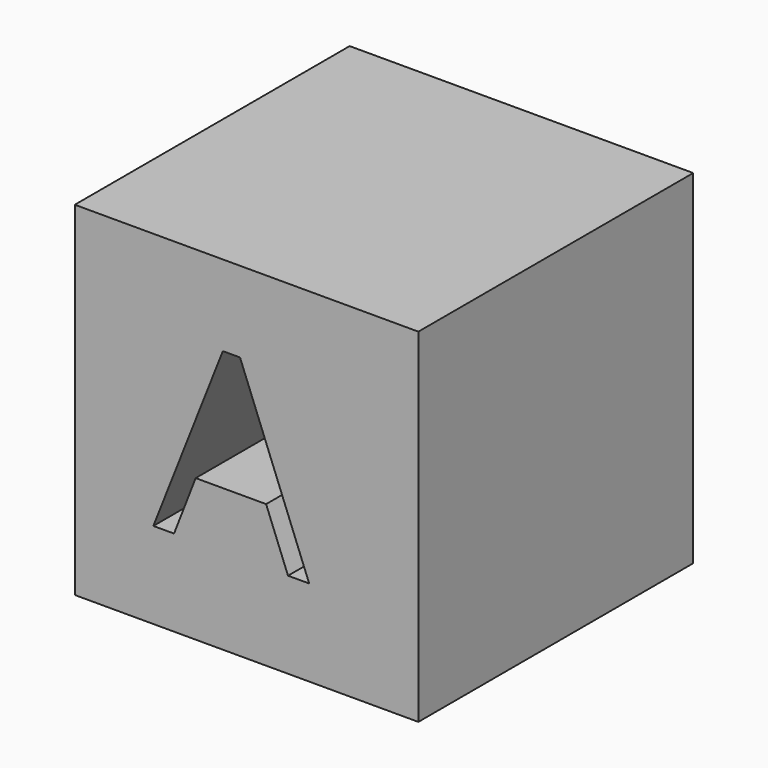
from build123d import *

# Parameters (mm, degrees)
F0_W     = 50.8
F0_H     = 50.8
F1_DEPTH = 25.4


with BuildPart() as f1:
    # F0 (on Front) → F1 (new body, symmetric)
    with BuildSketch(Plane.XZ):
        with Locations((2.5065707316, 0)):
            Rectangle(F0_W, F0_H)
        Polygon((11.7624275368, -12.6344077289), (8.6336481415, -12.6344077289), (5.3967836399, -4.3687414355), (-5.0192074016, -4.3687414355), (-8.2162510746, -12.6344077289), (-11.2767661922, -12.6344077289), (-1.002992396, 13.4653011177), (1.5398519489, 13.4653011177), align=None, mode=Mode.SUBTRACT)
    extrude(amount=F1_DEPTH, both=True)


solid = f1.part
